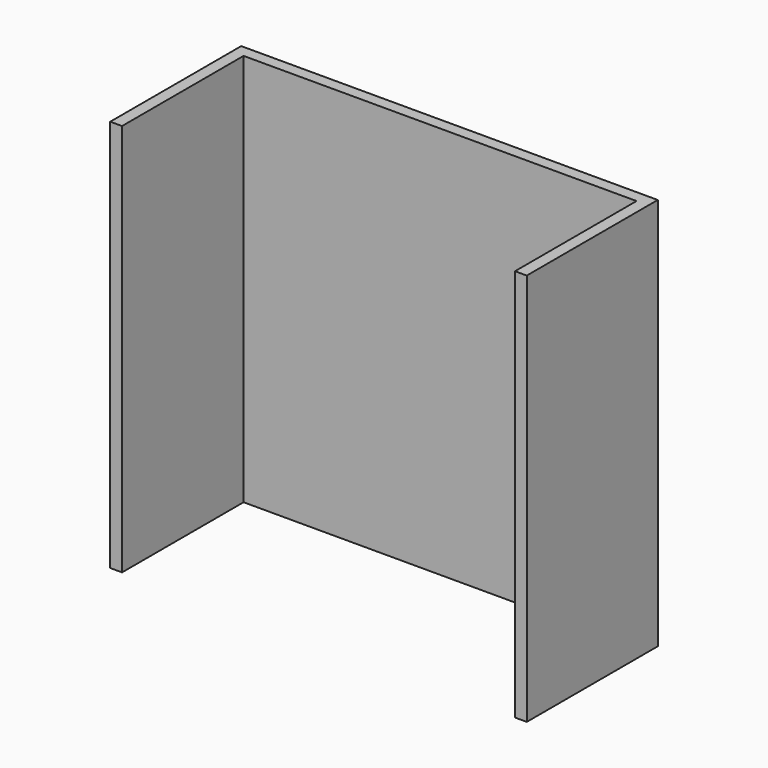
from build123d import *

# Parameters (mm, degrees)
F0_W     = 600
F0_H     = 600
F1_DEPTH = 18
F2_W     = 18
F2_H     = 600
F3_DEPTH = 250
F4_W     = 18
F4_H     = 600
F5_DEPTH = 250


with BuildPart() as f1:
    # F0 (on Front) → F1 (new body)
    with BuildSketch(Plane.XZ):
        Rectangle(F0_W, F0_H)
    extrude(amount=F1_DEPTH)

    # F2 (on Front) → F3 (join)
    with BuildSketch(Plane.XZ):
        with Locations((-309, 0)):
            Rectangle(F2_W, F2_H)
    extrude(amount=F3_DEPTH)

    # F4 (on Front) → F5 (join)
    with BuildSketch(Plane.XZ):
        with Locations((309, 0)):
            Rectangle(F4_W, F4_H)
    extrude(amount=F5_DEPTH)


solid = f1.part
